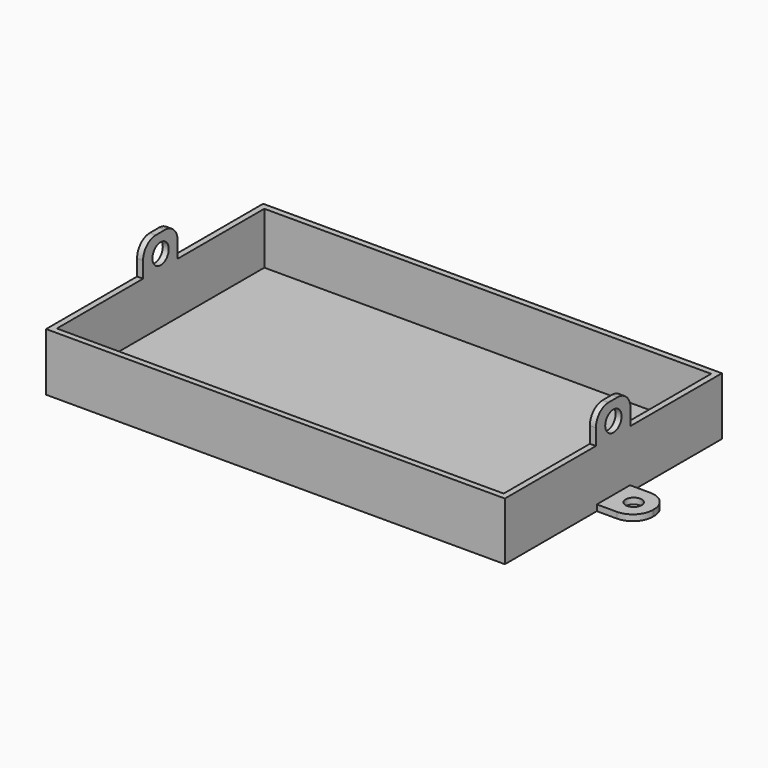
from build123d import *

# Parameters (mm, degrees)
F1_DEPTH  = 1.5
F3_DEPTH  = 13
F4_R      = 2.003864
F5_DEPTH  = 2
F6_R      = 5
F7_W      = 1.5
F7_H      = 10.848721
F8_DEPTH  = 8
F9_R      = 4
F10_R     = 2.560251
F11_DEPTH = 125


with BuildPart() as f1:
    # F0 (on Top) → F1 (new body)
    with BuildSketch(Plane.XY):
        Polygon((57.5, 5.202384), (57.5, 34), (-57.5, 34), (-57.5, 5.202384), (-57.5, -5.202384), (-57.5, -34), (57.5, -34), (57.5, -5.202384), (57.5, 0), align=None)
        Polygon((-57.5, -5.202384), (-57.5, 5.202384), (-67.543589, 5.202384), (-67.543589, 0), (-67.543589, -5.202384), align=None)
        Polygon((67.543589, 5.202384), (57.5, 5.202384), (57.5, 0), (57.5, -5.202384), (67.543589, -5.202384), (67.543589, 0), align=None)
    extrude(amount=F1_DEPTH)

    # F2 (on face) → F3 (join)
    with BuildSketch(Plane.XY.offset(1.5)):
        Polygon((-57.5, 34), (-57.5, 5.202384), (-57.5, -5.202384), (-57.5, -34), (57.5, -34), (57.5, -5.202384), (57.5, 5.202384), (57.5, 34), align=None)
        Polygon((-56, 32.5), (56, 32.5), (56, 5.202384), (56, -5.202384), (56, -32.5), (-56, -32.5), (-56, -5.202384), (-56, 5.202384), align=None, mode=Mode.SUBTRACT)
    extrude(amount=F3_DEPTH)

    # F4 (on face) → F5 (cut)
    with BuildSketch(Plane.XY.offset(1.5)):
        with Locations((-62.578715, 0)):
            Circle(F4_R)
        with Locations((62.578715, 0)):
            Circle(F4_R)
    extrude(amount=-F5_DEPTH, mode=Mode.SUBTRACT)

    # F6
    f6_edges = [f1.edges().sort_by_distance(p)[0] for p in [
        (-67.543589, 5.202384, 0.75),
        (-67.543589, -5.202384, 0.75),
        (67.543589, 5.202384, 0.75),
        (67.543589, -5.202384, 0.75),
    ]]
    fillet(f6_edges, radius=F6_R)

    # F7 (on face) → F8 (join)
    with BuildSketch(Plane.XY.offset(14.5)):
        with Locations((-56.75, -0.06754)):
            Rectangle(F7_W, F7_H)
        with Locations((56.75, -0.06754)):
            Rectangle(F7_W, F7_H)
    extrude(amount=F8_DEPTH)

    # F9
    f9_edges = [f1.edges().sort_by_distance(p)[0] for p in [
        (-56.75, -5.491901, 22.5),
        (-56.75, 5.35682, 22.5),
        (56.75, -5.491901, 22.5),
        (56.75, 5.35682, 22.5),
    ]]
    fillet(f9_edges, radius=F9_R)

    # F10 (on face) → F11 (cut)
    with BuildSketch(Plane.YZ.offset(57.5)):
        with Locations((0, 17.783318)):
            Circle(F10_R)
    extrude(amount=-F11_DEPTH, mode=Mode.SUBTRACT)


solid = f1.part
